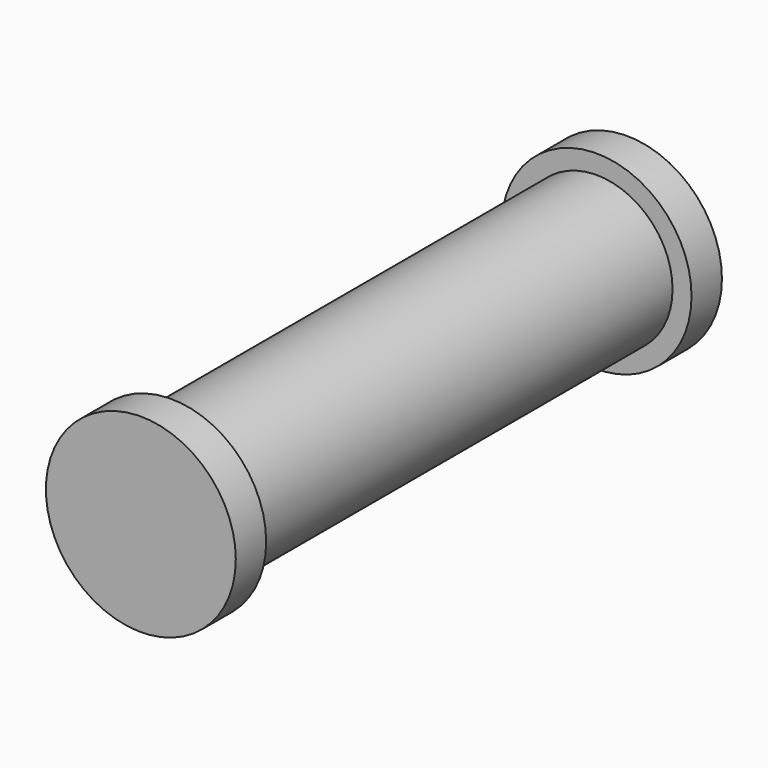
from build123d import *

# Parameters (mm, degrees)
F0_R     = 20
F1_DEPTH = 140
F0_R_2   = 25
F2_DEPTH = 10
F3_R     = 25
F4_DEPTH = 10


with BuildPart() as f1:
    # F0 (on Front) → F1 (new body)
    with BuildSketch(Plane.XZ):
        Circle(F0_R)
    extrude(amount=F1_DEPTH)

    # F0 (on Front) → F2 (join)
    with BuildSketch(Plane.XZ):
        Circle(F0_R_2)
        Circle(F0_R, mode=Mode.SUBTRACT)
        Circle(F0_R)
    extrude(amount=-F2_DEPTH)

    # F3 (on face) → F4 (join)
    with BuildSketch(Plane.XZ.offset(140)):
        Circle(F3_R)
    extrude(amount=F4_DEPTH)


solid = f1.part
